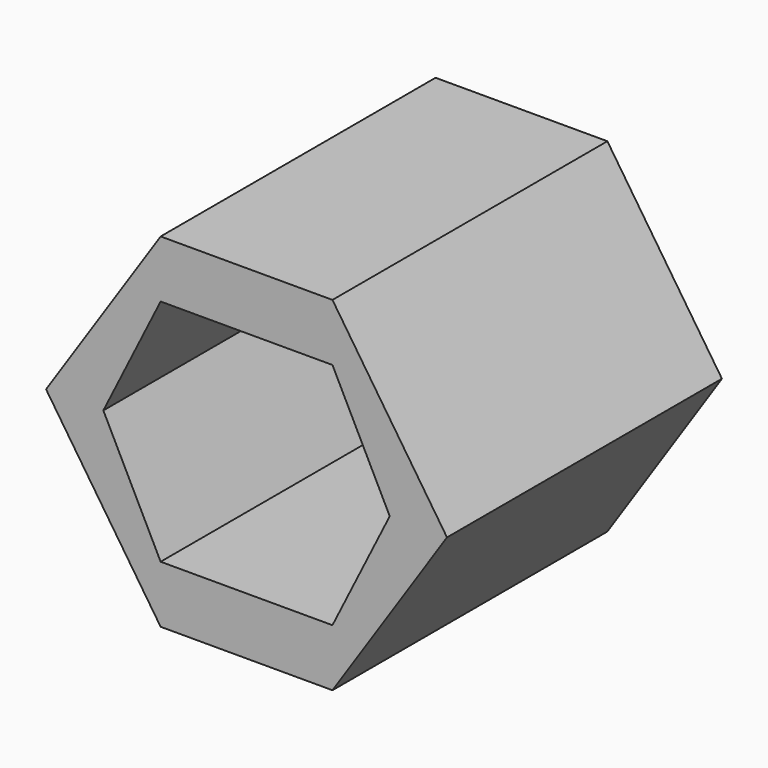
from build123d import *

# Parameters (mm, degrees)
F0_W     = 75
F0_H     = 25
F1_DEPTH = 150


with BuildPart() as f1:
    # F0 (on Front) → F1 (new body)
    with BuildSketch(Plane.XZ):
        with Locations((-37.5, 62.5)):
            Rectangle(F0_W, F0_H)
        Polygon((50, 0), (0, 75), (0, 50), (25, 0), align=None)
        Polygon((-75, 50), (-75, 75), (-125, 0), (-100, 0), align=None)
        Polygon((0, -75), (50, 0), (25, 0), (0, -50), align=None)
        Polygon((-100, 0), (-125, 0), (-75, -75), (-75, -50), align=None)
        with Locations((-37.5, -62.5)):
            Rectangle(F0_W, F0_H)
    extrude(amount=F1_DEPTH)


solid = f1.part
